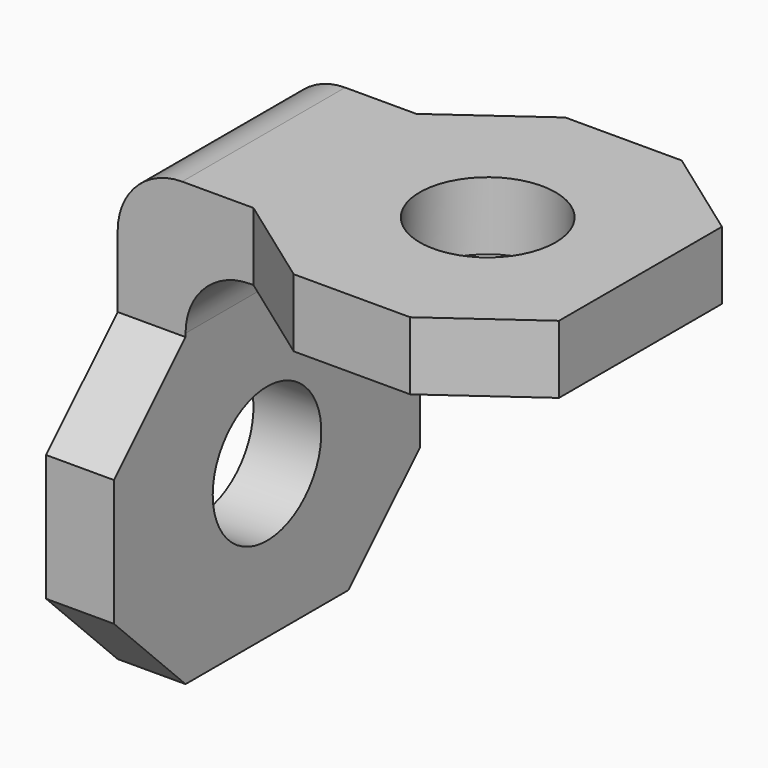
from build123d import *

# Parameters (mm, degrees)
SKETCH_R     = 2
PAD_DEPTH    = 2
SKETCH001_R  = 2
PAD001_DEPTH = 2
FILLET_R     = 1.9


with BuildPart() as part:
    # Sketch → Pad (new body)
    with BuildSketch(Plane.XY):
        Polygon((13, 3), (13, -3), (10.21455, -5), (6.78545, -5), (4, -3), (0, -3), (0, 3), (4, 3), (6.78545, 5), (10.21455, 5), align=None)
        with Locations((8.5, 0)):
            Circle(SKETCH_R, mode=Mode.SUBTRACT)
    extrude(amount=PAD_DEPTH)

    # Sketch001 → Pad001 (new body)
    with BuildSketch(Plane(origin=(0, 0, 0), x_dir=(0, -1, 0), z_dir=(-1, 0, 0))):
        Polygon((-3, 0), (3, 0), (3, -2), (5.636039, -4.636039), (5.636039, -8.363961), (3, -11), (-3, -11), (-5.636039, -8.363961), (-5.636039, -4.636039), (-3, -2), align=None)
        with Locations((0, -6.5)):
            Circle(SKETCH001_R, mode=Mode.SUBTRACT)
    extrude(amount=-PAD001_DEPTH)

    # Fillet
    fillet_edges = [part.edges().sort_by_distance(p)[0] for p in [
        (2, 0, 0),
        (0, 0, 2),
    ]]
    fillet(fillet_edges, radius=FILLET_R)


solid = part.part
